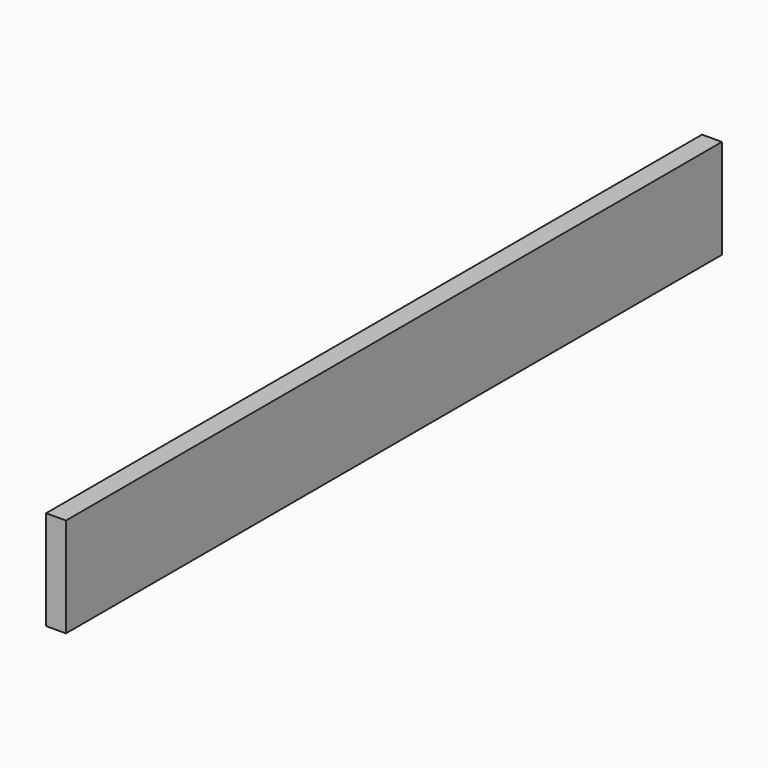
from build123d import *

# Parameters (mm, degrees)
PAD_DEPTH = 12


with BuildPart() as part:
    # Sketch → Pad (new body)
    with BuildSketch(Plane.YZ):
        Polygon((0, 0), (0, 60), (495, 60), (495, 0), (247.5, 0), align=None)
    extrude(amount=-PAD_DEPTH)


solid = part.part
